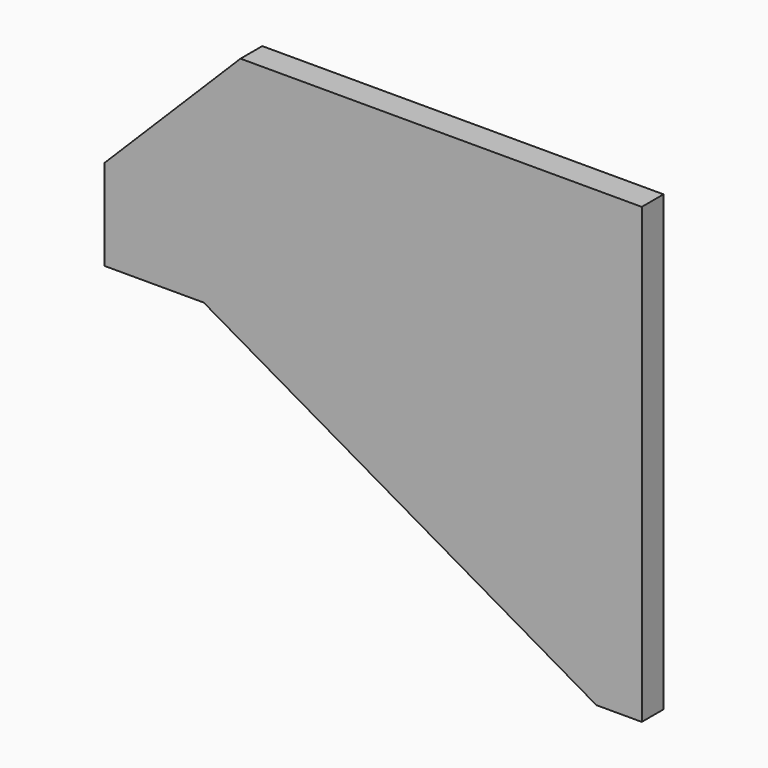
from build123d import *

# Parameters (mm, degrees)
F1_DEPTH = 3
F2_SIZE  = 30


with BuildPart() as f1:
    # F0 (on Front) → F1 (new body, symmetric)
    with BuildSketch(Plane.XZ):
        Polygon((0, -50), (0, 50), (-118.5, 50), (-118.5, 0), (-96.60254, 0), (-10, -50), align=None)
    extrude(amount=F1_DEPTH, both=True)

    # F2
    f2_edges = [f1.edges().sort_by_distance(p)[0] for p in [
        (-118.5, 0, 50),
    ]]
    chamfer(f2_edges, length=F2_SIZE)


solid = f1.part
